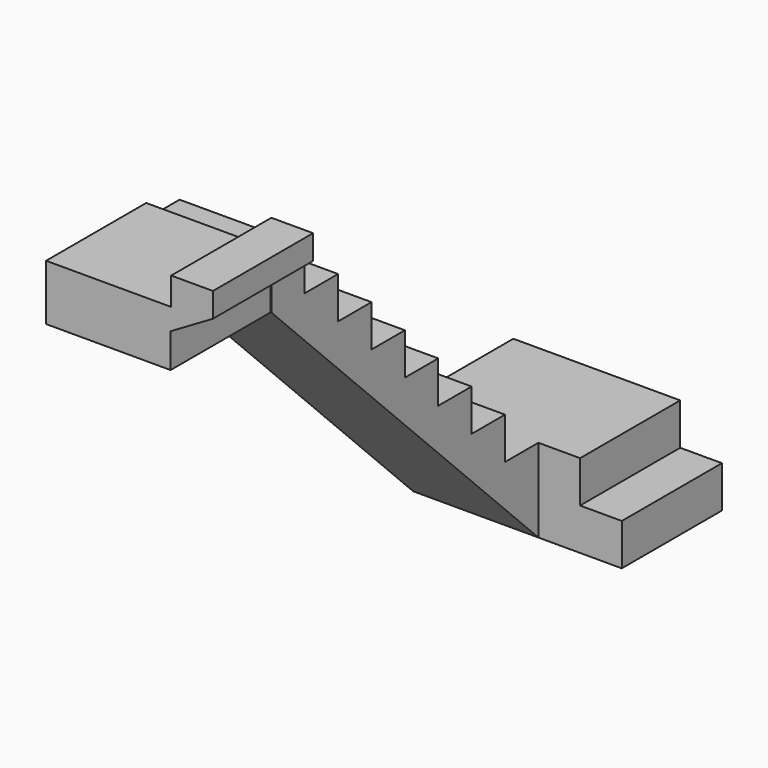
from build123d import *

# Parameters (mm, degrees)
F1_DEPTH  = 120
F2_W      = 10
F2_H      = 10
F3_DEPTH  = 30
F5_DEPTH  = 30
F6_W      = 30
F6_H      = 100
F7_DEPTH  = 30
F9_DEPTH  = 60
F10_W     = 10
F10_H     = 10
F11_DEPTH = 30
F12_W     = 10
F12_H     = 10
F13_DEPTH = 30
F15_DEPTH = 30
F16_W     = 10
F16_H     = 23.5784614086
F17_DEPTH = 30


with BuildPart() as f1:
    # F0 (on Top) → F1 (new body)
    with BuildSketch(Plane.XY):
        Polygon((16.6459785789, 59.9448081851), (-33.3540214211, 59.9448081851), (-33.3540214211, 29.9448081851), (-33.3540214211, -50.0551918149), (-33.3540214211, -80.0551918149), (16.6459785789, -80.0551918149), (16.6459785789, -50.0551918149), (-3.3540214211, -50.0551918149), (-3.3540214211, 29.9448081851), (16.6459785789, 29.9448081851), align=None)
    extrude(amount=F1_DEPTH)

    # F2 (on face) → F3 (cut)
    with BuildSketch(Plane(origin=(0, 59.9448081851, 0), x_dir=(-1, 0, 0), z_dir=(0, 1, 0))):
        with Locations((-11.6459785789, 15)):
            Rectangle(F2_W, F2_H)
        with Locations((-1.6459785789, 25)):
            Rectangle(F2_W, F2_H)
        Polygon((-16.6459785789, 120), (-16.6459785789, 20), (-6.6459785789, 20), (-6.6459785789, 30), (3.3540214211, 30), (3.3540214211, 120), align=None)
    extrude(amount=-F3_DEPTH, mode=Mode.SUBTRACT)

    # F4 (on face) → F5 (cut)
    with BuildSketch(Plane.YZ.offset(-3.3540214211)):
        Polygon((-50.0551918149, 100), (29.9448081851, 20), (29.9448081851, 120), (-50.0551918149, 120), align=None)
    extrude(amount=-F5_DEPTH, mode=Mode.SUBTRACT)

    # F6 (on face) → F7 (cut)
    with BuildSketch(Plane.YZ.offset(-3.3540214211)):
        with Locations((44.9448081851, 70)):
            Rectangle(F6_W, F6_H)
    extrude(amount=-F7_DEPTH, mode=Mode.SUBTRACT)

    # F8 (on face) → F9 (cut)
    with BuildSketch(Plane(origin=(-33.3540214211, 0, 0), x_dir=(0, -1, 0), z_dir=(-1, 0, 0))):
        Polygon((50.0551918149, 80), (-29.9448081851, 0), (80.0551918149, 0), (80.0551918149, 80), align=None)
    extrude(amount=-F9_DEPTH, mode=Mode.SUBTRACT)

    # F10 (on face) → F11 (cut)
    with BuildSketch(Plane(origin=(-33.3540214211, 0, 0), x_dir=(0, -1, 0), z_dir=(-1, 0, 0))):
        with Locations((-24.9448081851, 25)):
            Rectangle(F10_W, F10_H)
        with Locations((45.0551918149, 95)):
            Rectangle(F10_W, F10_H)
        with Locations((35.0551918149, 85)):
            Rectangle(F10_W, F10_H)
        with Locations((25.0551918149, 75)):
            Rectangle(F10_W, F10_H)
        with Locations((15.0551918149, 65)):
            Rectangle(F10_W, F10_H)
        with Locations((5.0551918149, 55)):
            Rectangle(F10_W, F10_H)
        with Locations((-4.9448081851, 45)):
            Rectangle(F10_W, F10_H)
        with Locations((-14.9448081851, 35)):
            Rectangle(F10_W, F10_H)
    extrude(amount=-F11_DEPTH, mode=Mode.SUBTRACT)

    # F12 (on face) → F13 (cut)
    with BuildSketch(Plane.XZ.offset(80.0551918149)):
        with Locations((11.6459785789, 115)):
            Rectangle(F12_W, F12_H)
        with Locations((1.6459785789, 105)):
            Rectangle(F12_W, F12_H)
        Polygon((16.6459785789, 80), (16.6459785789, 100), (-3.5083531402, 88.195104599), (-3.5083531402, 80), align=None)
        with Locations((1.6459785789, 115)):
            Rectangle(F12_W, F12_H)
    extrude(amount=-F13_DEPTH, mode=Mode.SUBTRACT)

    # F14 (on face) → F15 (cut)
    with BuildSketch(Plane.XZ.offset(80.0551918149)):
        Polygon((-3.3540214211, 120), (-3.5083531402, 120), (-33.3540214211, 120), (-33.3540214211, 93.3674471554), (-3.3540214211, 93.3674471554), (-3.3540214211, 100), align=None)
    extrude(amount=-F15_DEPTH, mode=Mode.SUBTRACT)

    # F16 (on face) → F17 (cut)
    with BuildSketch(Plane.XZ.offset(80.0551918149)):
        with Locations((11.6459785789, 98.2107692957)):
            Rectangle(F16_W, F16_H)
    extrude(amount=-F17_DEPTH, mode=Mode.SUBTRACT)


solid = f1.part
